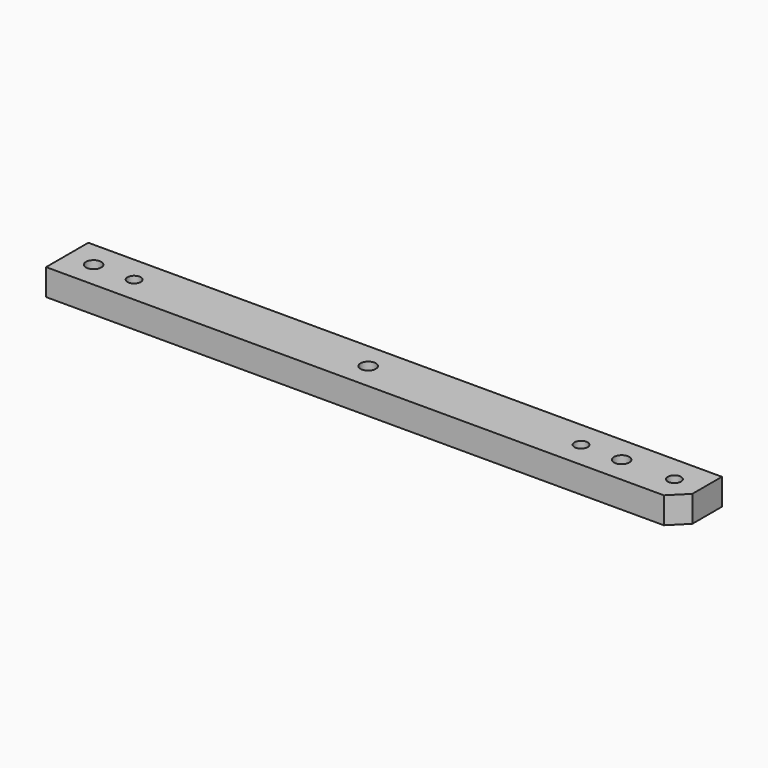
from build123d import *

# Parameters (mm, degrees)
F0_W     = 120
F0_H     = 10
F0_R     = 1.45
F0_R_2   = 1.25
F1_DEPTH = 5
F2_SIZE  = 3


with BuildPart() as f1:
    # F0 (on Top) → F1 (new body)
    with BuildSketch(Plane.XY):
        with Locations((5, 0)):
            Rectangle(F0_W, F0_H)
        with Locations((-50, 0)):
            Circle(F0_R, mode=Mode.SUBTRACT)
        with Locations((-42.325437, 0)):
            Circle(F0_R_2, mode=Mode.SUBTRACT)
        with Locations((2, 0)):
            Circle(F0_R, mode=Mode.SUBTRACT)
        with Locations((42.325437, 0)):
            Circle(F0_R_2, mode=Mode.SUBTRACT)
        with Locations((50, 0)):
            Circle(F0_R, mode=Mode.SUBTRACT)
        with Locations((60, 0)):
            Circle(F0_R_2, mode=Mode.SUBTRACT)
    extrude(amount=F1_DEPTH)

    # F2
    f2_edges = [f1.edges().sort_by_distance(p)[0] for p in [
        (65, -5, 2.5),
    ]]
    chamfer(f2_edges, length=F2_SIZE)


solid = f1.part
